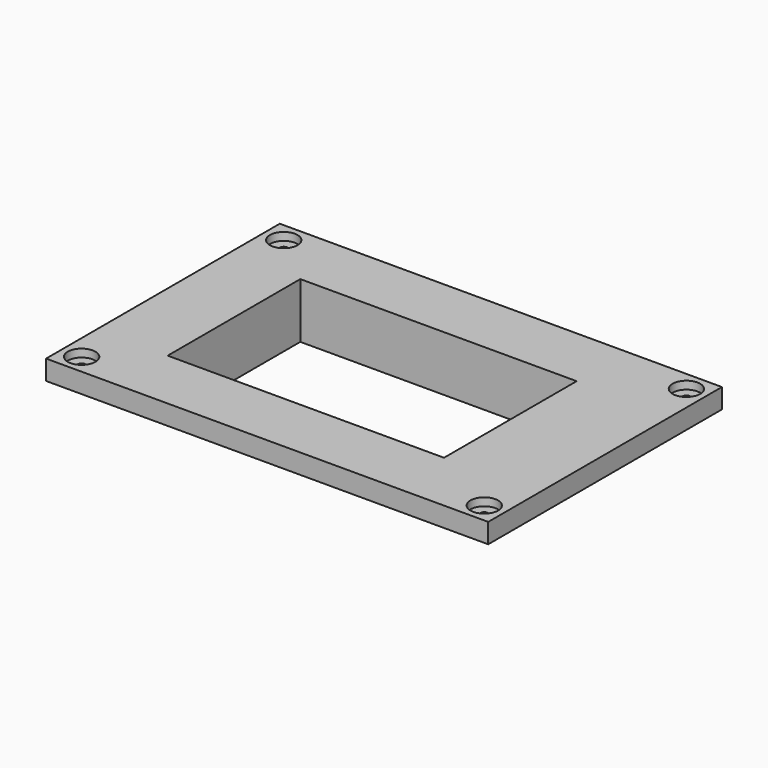
from build123d import *

# Parameters (mm, degrees)
SKETCH_W        = 112
SKETCH_H        = 74
SKETCH_R        = 1
PAD_DEPTH       = 5
SKETCH001_R     = 3.5
POCKET_DEPTH    = 2
SKETCH002_W     = 70
SKETCH002_H     = 42
POCKET001_DEPTH = 5
SKETCH003_W     = 72
SKETCH003_H     = 44
SKETCH003_W_2   = 70
SKETCH003_H_2   = 42
PAD001_DEPTH    = 9


with BuildPart() as part:
    # Sketch → Pad (new body)
    with BuildSketch(Plane.XY):
        with Locations((56, 37)):
            Rectangle(SKETCH_W, SKETCH_H)
        with Locations((5, 69)):
            Circle(SKETCH_R, mode=Mode.SUBTRACT)
        with Locations((5, 5)):
            Circle(SKETCH_R, mode=Mode.SUBTRACT)
        with Locations((107, 69)):
            Circle(SKETCH_R, mode=Mode.SUBTRACT)
        with Locations((107, 5)):
            Circle(SKETCH_R, mode=Mode.SUBTRACT)
    extrude(amount=PAD_DEPTH)

    # Sketch001 → Pocket (cut)
    with BuildSketch(Plane.XY.offset(5)):
        with Locations((5, 5)):
            Circle(SKETCH001_R)
        with Locations((5, 69)):
            Circle(SKETCH001_R)
        with Locations((107, 69)):
            Circle(SKETCH001_R)
        with Locations((107, 5)):
            Circle(SKETCH001_R)
    extrude(amount=-POCKET_DEPTH, mode=Mode.SUBTRACT)

    # Sketch002 → Pocket001 (cut)
    with BuildSketch(Plane.XY.offset(5)):
        with Locations((53, 37)):
            Rectangle(SKETCH002_W, SKETCH002_H)
    extrude(amount=-POCKET001_DEPTH, mode=Mode.SUBTRACT)

    # Sketch003 → Pad001 (new body)
    with BuildSketch(Plane(origin=(0, 0, 0), x_dir=(1, 0, 0), z_dir=(0, 0, -1))):
        with Locations((53, -37)):
            Rectangle(SKETCH003_W, SKETCH003_H)
        with Locations((53, -37)):
            Rectangle(SKETCH003_W_2, SKETCH003_H_2, mode=Mode.SUBTRACT)
    extrude(amount=PAD001_DEPTH)


solid = part.part
